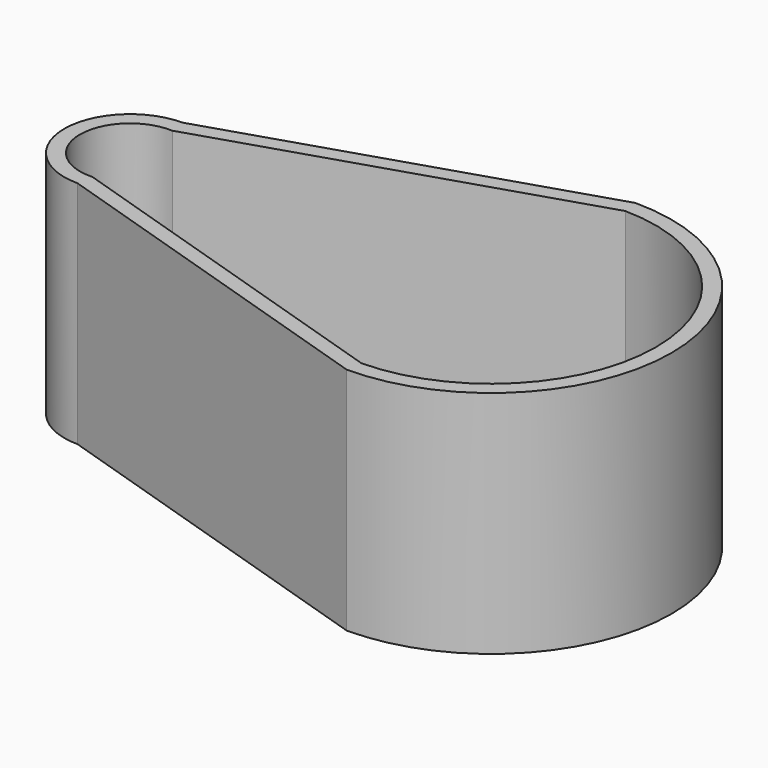
from build123d import *

# Parameters (mm, degrees)
F2_DEPTH = 14
F3_DEPTH = 14.001


with BuildPart() as f2:
    # F0 (on Top) → F2 (new body)
    with BuildSketch(Plane.XY):
        with BuildLine():
            Line((0, 11), (-22, 4))
            ThreePointArc((-22, 4), (-26, 0), (-22, -4))
            Line((-22, -4), (0, -11))
            ThreePointArc((0, -11), (11, 0), (0, 11))
        make_face()
    extrude(amount=F2_DEPTH)

    # F1 (on face) → F3 (cut, through all)
    with BuildSketch(Plane.XY):
        with BuildLine():
            ThreePointArc((-21.862283, 3.046889), (-25.05, 0), (-21.862283, -3.046889))
            Line((-21.862283, -3.046889), (0.14424, -10.048965))
            ThreePointArc((0.14424, -10.048965), (10.05, 0), (0.14424, 10.048965))
            Line((0.14424, 10.048965), (-21.862283, 3.046889))
        make_face()
    extrude(amount=F3_DEPTH, mode=Mode.SUBTRACT)


solid = f2.part
